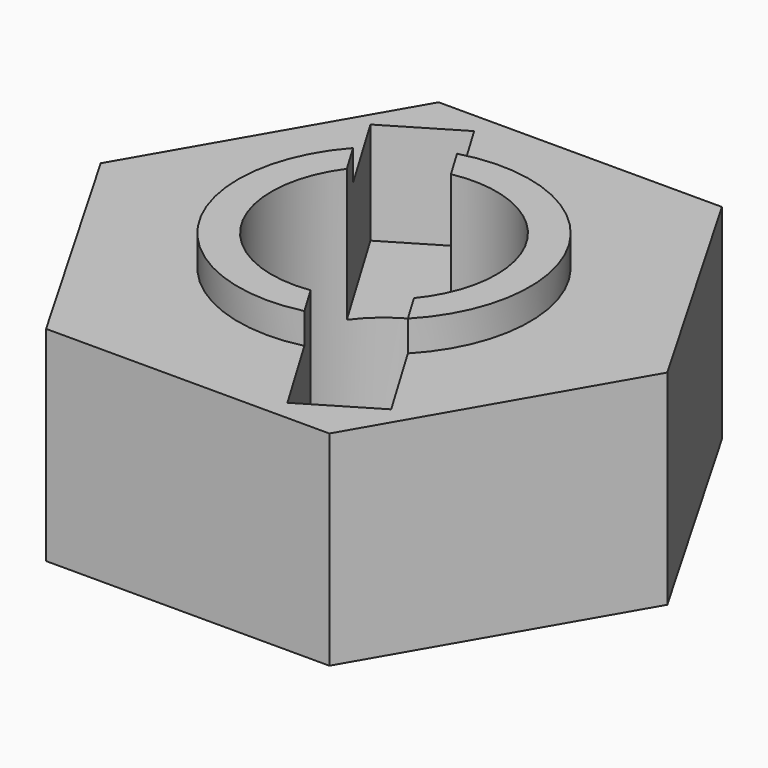
from build123d import *

# Parameters (mm, degrees)
F0_R     = 2.75
F1_DEPTH = 5
F2_R     = 3.5661431143
F2_R_2   = 2.75
F3_DEPTH = 0.75
F5_DEPTH = 2.5
F6_DEPTH = 25


with BuildPart() as f1:
    # F0 (on Top) → F1 (new body)
    with BuildSketch(Plane.XY):
        Polygon((3.4641016151, 6), (-3.4641016151, 6), (-6.9282032303, 0), (-3.4641016151, -6), (3.4641016151, -6), (6.9282032303, 0), align=None)
        Circle(F0_R, mode=Mode.SUBTRACT)
    extrude(amount=F1_DEPTH)

    # F2 (on face) → F3 (join)
    with BuildSketch(Plane.XY.offset(5)):
        Circle(F2_R)
        Circle(F2_R_2, mode=Mode.SUBTRACT)
    extrude(amount=F3_DEPTH)

    # F4 (on face) → F5 (cut)
    with BuildSketch(Plane.XY.offset(5)):
        Polygon((-2.1890449113, 5.4928889455), (-3.906649748, 4.4682750548), (2.0444942813, -5.5078865623), (3.7620991179, -4.4832726717), align=None)
    extrude(amount=-F5_DEPTH, mode=Mode.SUBTRACT)

    # F6 (cut): faces of the model
    f6_faces = [f1.faces().sort_by_distance(p)[0] for p in [
        (-1.6478181141, 2.6289073274, 5),
        (1.5304323639, -2.698932206, 5),
        (-1.6478181141, 2.6289073274, 5),
        (1.5304323639, -2.698932206, 5),
    ]]
    extrude(f6_faces, amount=-F6_DEPTH, mode=Mode.SUBTRACT)


solid = f1.part
